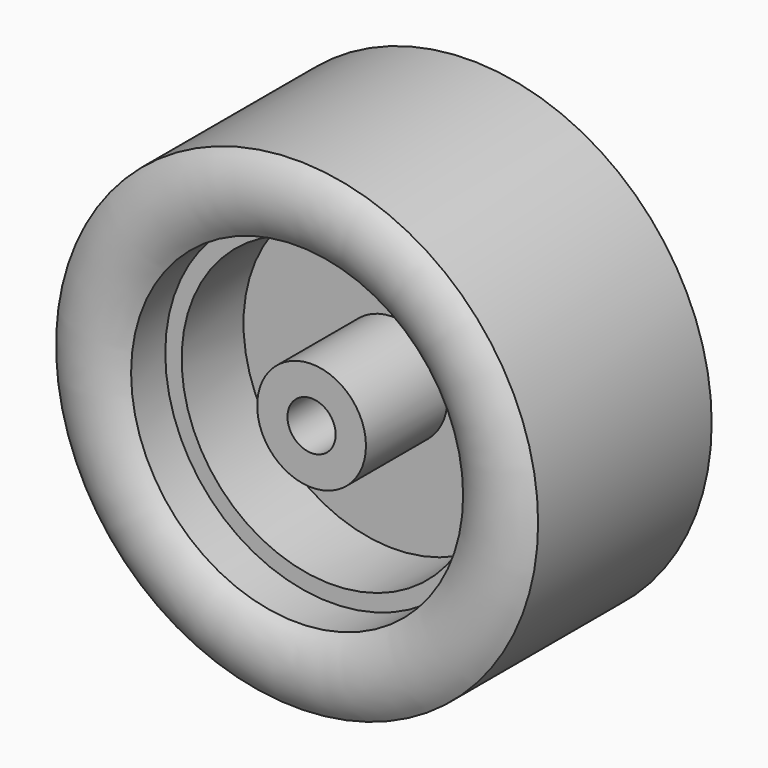
from build123d import *


with BuildPart() as f1:
    # F0 (on Top) → F1 (revolve)
    with BuildSketch(Plane.XY):
        with BuildLine():
            Line((3.805827, 6.538476), (2, 6.538476))
            Line((2, 6.538476), (2, -9.961463))
            Line((2, -9.961463), (4.513236, -9.961463))
            Line((4.513236, -9.961463), (4.513236, -1.251698))
            Line((4.513236, -1.251698), (12.416488, -1.251698))
            Line((12.416488, -1.251698), (12.416488, -7.917237))
            Line((12.416488, -7.917237), (13.775627, -7.917237))
            Line((13.775627, -7.917237), (13.775627, -11.461524))
            ThreePointArc((13.775627, -11.461524), (16.887813, -12.570455), (20, -11.461524))
            Line((20, -11.461524), (20, 6.538476))
            Line((20, 6.538476), (19.151396, 6.538476))
            Line((19.151396, 6.538476), (19.151396, -10.855305))
            Line((19.151396, -10.855305), (14.624231, -10.855305))
            Line((14.624231, -10.855305), (14.624231, -7.068633))
            Line((14.624231, -7.068633), (13.265092, -7.068633))
            Line((13.265092, -7.068633), (13.265092, -0.403094))
            Line((13.265092, -0.403094), (3.805827, -0.403094))
            Line((3.805827, -0.403094), (3.805827, 6.538476))
        make_face()
    revolve(axis=Axis((0, -1.518788, 0), (0, -1, 0)))


with BuildPart() as f3:
    # F2 (on Top) → F3 (revolve)
    with BuildSketch(Plane.XY):
        Polygon((3.805827, 5.5), (2, 5.5), (2, -5.5), (3.805827, -5.5), (3.805827, -1.5), (18.5, -1.5), (18.5, 1.5), (3.805827, 1.5), align=None)
    revolve(axis=Axis((0, -1.518788, 0), (0, -1, 0)))


solid = Compound([f1.part, f3.part])
